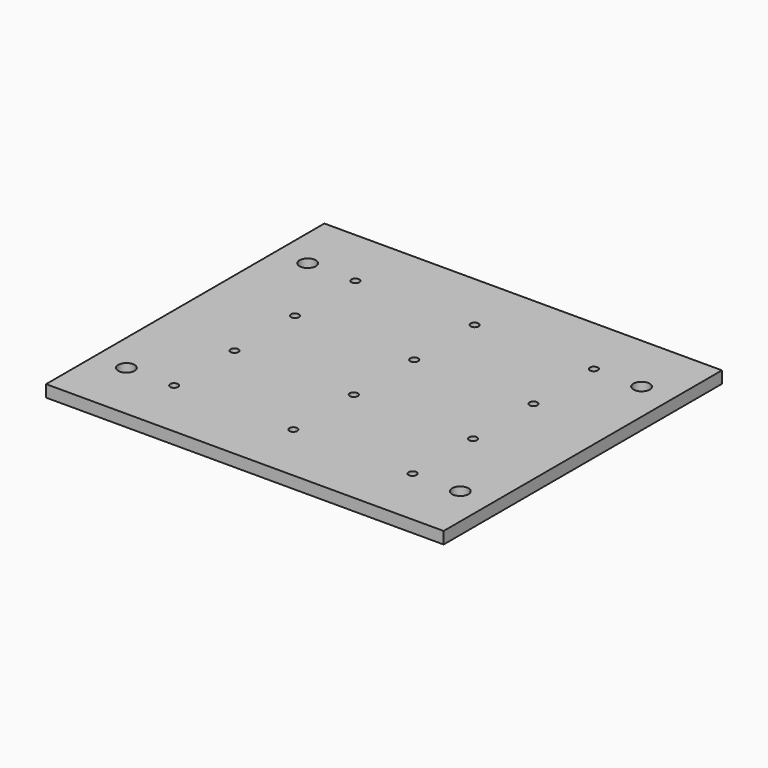
from build123d import *

# Parameters (mm, degrees)
F0_W     = 200
F0_H     = 175
F0_R     = 4.1
F0_R_2   = 2
F1_DEPTH = 6


with BuildPart() as f1:
    # F0 (on Top) → F1 (new body)
    with BuildSketch(Plane.XY):
        Rectangle(F0_W, F0_H)
        with Locations((-84, -57)):
            Circle(F0_R, mode=Mode.SUBTRACT)
        with Locations((-60, -57)):
            Circle(F0_R_2, mode=Mode.SUBTRACT)
        with Locations((-60, -19)):
            Circle(F0_R_2, mode=Mode.SUBTRACT)
        with Locations((0, -57)):
            Circle(F0_R_2, mode=Mode.SUBTRACT)
        with Locations((60, -57)):
            Circle(F0_R_2, mode=Mode.SUBTRACT)
        with Locations((84, -57)):
            Circle(F0_R, mode=Mode.SUBTRACT)
        with Locations((0, -19)):
            Circle(F0_R_2, mode=Mode.SUBTRACT)
        with Locations((60, -19)):
            Circle(F0_R_2, mode=Mode.SUBTRACT)
        with Locations((-60, 19)):
            Circle(F0_R_2, mode=Mode.SUBTRACT)
        with Locations((-84, 57)):
            Circle(F0_R, mode=Mode.SUBTRACT)
        with Locations((-60, 57)):
            Circle(F0_R_2, mode=Mode.SUBTRACT)
        with Locations((0, 19)):
            Circle(F0_R_2, mode=Mode.SUBTRACT)
        with Locations((60, 19)):
            Circle(F0_R_2, mode=Mode.SUBTRACT)
        with Locations((0, 57)):
            Circle(F0_R_2, mode=Mode.SUBTRACT)
        with Locations((60, 57)):
            Circle(F0_R_2, mode=Mode.SUBTRACT)
        with Locations((84, 57)):
            Circle(F0_R, mode=Mode.SUBTRACT)
    extrude(amount=F1_DEPTH)


solid = f1.part
